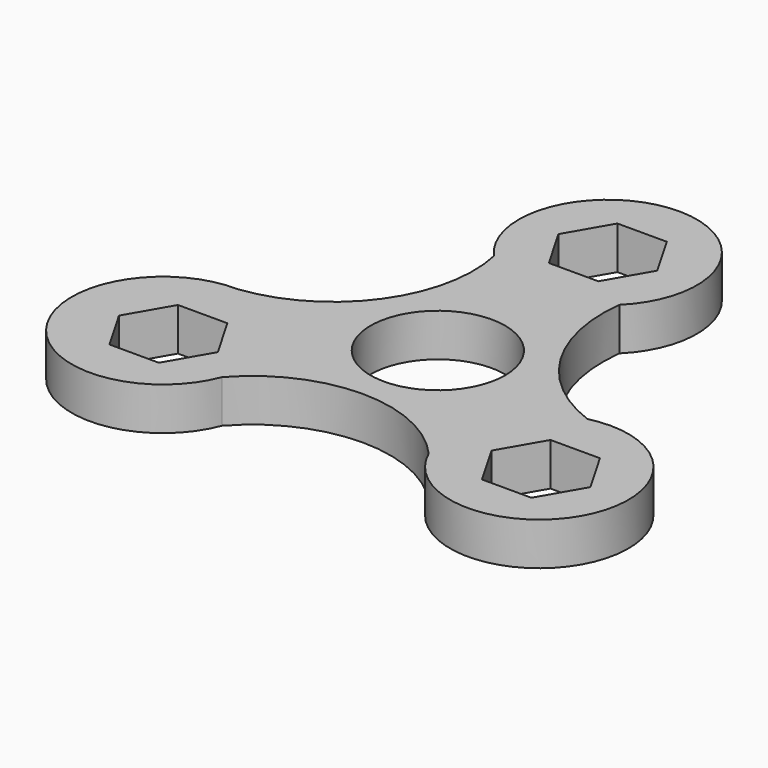
from build123d import *

# Parameters (mm, degrees)
F0_R     = 11
F1_DEPTH = 7


with BuildPart() as f1:
    # F0 (on Top) → F1 (new body)
    with BuildSketch(Plane.XY):
        with BuildLine():
            ThreePointArc((26.754572, -2.864861), (13.758627, 7.866426), (10.194656, 24.339228))
            ThreePointArc((10.194656, 24.339228), (0.388142, 49.300061), (-10.73438, 24.897183))
            ThreePointArc((-10.73438, 24.897183), (-14.515676, 6.694779), (-30.551992, -2.710662))
            ThreePointArc((-30.551992, -2.710662), (-43.22463, -25.954382), (-16.92046, -22.961567))
            ThreePointArc((-16.92046, -22.961567), (-0.018954, -15.346234), (16.882551, -22.961567))
            ThreePointArc((16.882551, -22.961567), (43.302508, -23.466683), (26.754572, -2.864861))
        make_face()
        Polygon((-25.692905, -24.896745), (-33.775808, -24.896745), (-37.81726, -17.896745), (-33.775808, -10.896745), (-25.692905, -10.896745), (-21.651453, -17.896745), align=None, mode=Mode.SUBTRACT)
        Polygon((34.759708, -10.328691), (38.80116, -17.328691), (34.759708, -24.328691), (26.676804, -24.328691), (22.635352, -17.328691), (26.676804, -10.328691), align=None, mode=Mode.SUBTRACT)
        Circle(F0_R, mode=Mode.SUBTRACT)
        Polygon((8.082904, 34.74078), (4.041452, 27.74078), (-4.041452, 27.74078), (-8.082904, 34.74078), (-4.041452, 41.74078), (4.041452, 41.74078), align=None, mode=Mode.SUBTRACT)
    extrude(amount=F1_DEPTH)


solid = f1.part
